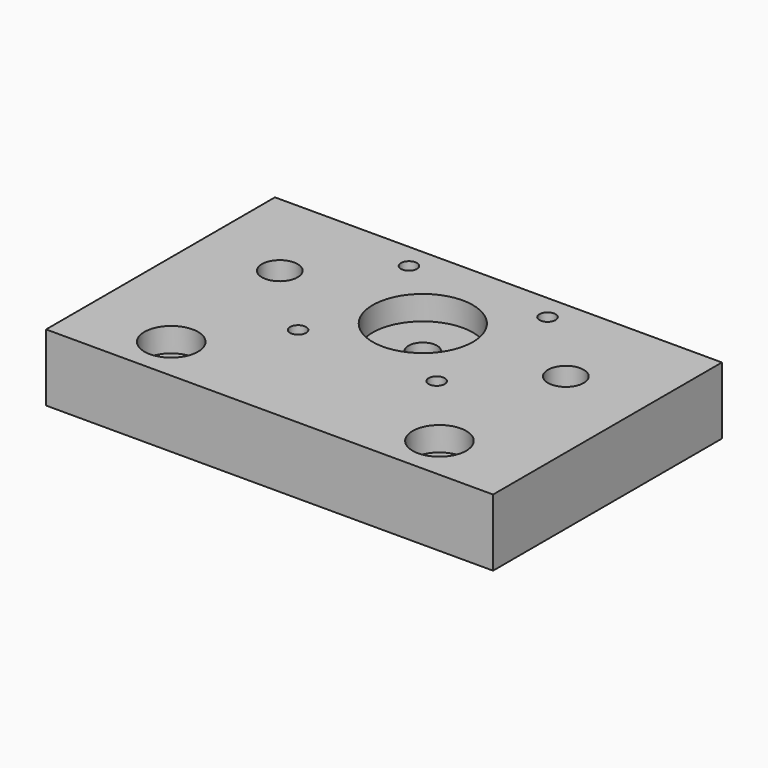
from build123d import *

# Parameters (mm, degrees)
SKETCH_W        = 100
SKETCH_H        = 64
SKETCH_R        = 3.2
SKETCH_R_2      = 1.8
SKETCH_R_3      = 4
PAD_DEPTH       = 15
SKETCH001_R     = 11.2
SKETCH001_R_2   = 6
POCKET_DEPTH    = 5.4
SKETCH002_R     = 3.2
POCKET001_DEPTH = 3.2


with BuildPart() as part:
    # Sketch → Pad (new body)
    with BuildSketch(Plane.XY):
        with Locations((50, 32)):
            Rectangle(SKETCH_W, SKETCH_H)
        with Locations((50, 42.85)):
            Circle(SKETCH_R, mode=Mode.SUBTRACT)
        with Locations((65.5, 58.35)):
            Circle(SKETCH_R_2, mode=Mode.SUBTRACT)
        with Locations((65.5, 27.35)):
            Circle(SKETCH_R_2, mode=Mode.SUBTRACT)
        with Locations((34.5, 27.35)):
            Circle(SKETCH_R_2, mode=Mode.SUBTRACT)
        with Locations((34.5, 58.35)):
            Circle(SKETCH_R_2, mode=Mode.SUBTRACT)
        with Locations((20, 10)):
            Circle(SKETCH_R, mode=Mode.SUBTRACT)
        with Locations((80, 10)):
            Circle(SKETCH_R, mode=Mode.SUBTRACT)
        with Locations((82, 42.85)):
            Circle(SKETCH_R_3, mode=Mode.SUBTRACT)
        with Locations((18, 42.85)):
            Circle(SKETCH_R_3, mode=Mode.SUBTRACT)
    extrude(amount=PAD_DEPTH)

    # Sketch001 (on Face15 of Pad) → Pocket (cut)
    with BuildSketch(Plane.XY.offset(15)):
        with Locations((50, 42.85)):
            Circle(SKETCH001_R)
        with Locations((20, 10)):
            Circle(SKETCH001_R_2)
        with Locations((80, 10)):
            Circle(SKETCH001_R_2)
    extrude(amount=-POCKET_DEPTH, mode=Mode.SUBTRACT)

    # Sketch002 (on Face4 of Pocket) → Pocket001 (cut)
    with BuildSketch(Plane(origin=(0, 0, 0), x_dir=(1, 0, 0), z_dir=(0, 0, -1))):
        with Locations((34.5, -27.35)):
            Circle(SKETCH002_R)
        with Locations((65.5, -27.35)):
            Circle(SKETCH002_R)
        with Locations((34.5, -58.35)):
            Circle(SKETCH002_R)
        with Locations((65.5, -58.35)):
            Circle(SKETCH002_R)
    extrude(amount=-POCKET001_DEPTH, mode=Mode.SUBTRACT)


solid = part.part
